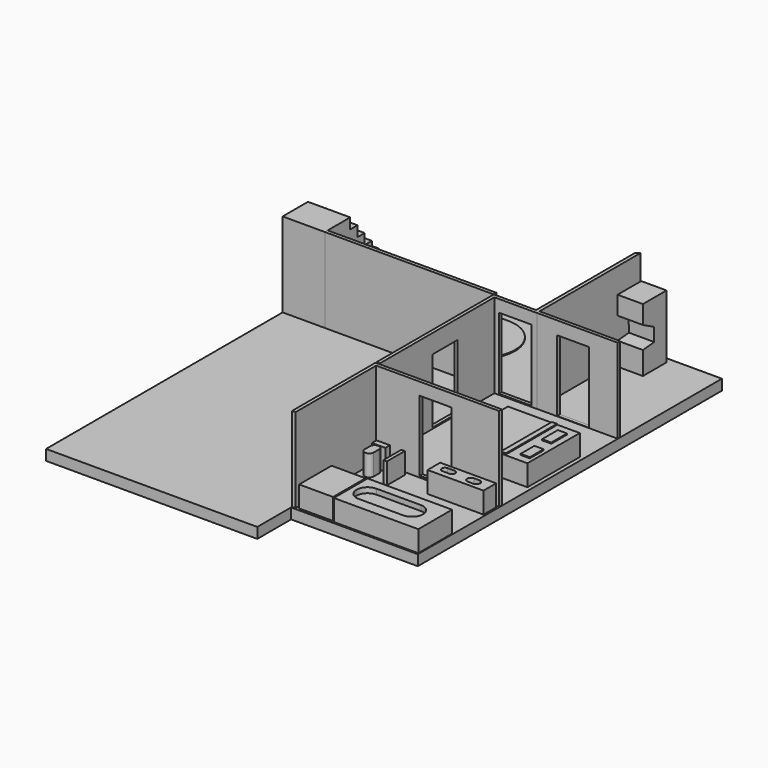
from build123d import *

# Parameters (mm, degrees)
PAD_DEPTH       = 1
PAD004_DEPTH    = 8
PAD005_DEPTH    = 4
SKETCH014_W     = 7.729191
SKETCH014_H     = 0.31886
PAD006_DEPTH    = 8
SKETCH015_W     = 11.953097
SKETCH015_H     = 0.33
PAD007_DEPTH    = 8
SKETCH016_W     = 3
SKETCH016_H     = 6.672529
POCKET_DEPTH    = 5
SKETCH017_W     = 3.102198
SKETCH017_H     = 6.756484
POCKET001_DEPTH = 5
SKETCH018_W     = 15.99927
SKETCH018_H     = 0.33
PAD008_DEPTH    = 8
SKETCH020_W     = 3
SKETCH020_H     = 6.100988
POCKET002_DEPTH = 5
PAD009_DEPTH    = 8
SKETCH005_W     = 5.295486
SKETCH005_H     = 1.5
SKETCH005_W_2   = 8
SKETCH005_H_2   = 4
SKETCH005_W_3   = 3.212604
SKETCH005_H_3   = 3.838312
SKETCH005_W_4   = 1.267163
SKETCH005_H_4   = 0.540659
SKETCH005_W_5   = 0.33
SKETCH005_H_5   = 2.119946
PAD010_DEPTH    = 2
POCKET003_DEPTH = 0.5
SKETCH024_W     = 6.8
SKETCH024_H     = 6.2
PAD011_DEPTH    = 2
SKETCH025_W     = 2.4
SKETCH025_H     = 2.8
PAD012_DEPTH    = 6
POCKET004_DEPTH = 2.5
SKETCH028_W     = 3
SKETCH028_H     = 6.730199
POCKET005_DEPTH = 5
PAD013_DEPTH    = 3.2
POCKET006_DEPTH = 0.5
SKETCH031_W     = 1.637633
SKETCH031_H     = 0.834874
PAD014_DEPTH    = 1.2
PAD015_DEPTH    = 0.1
SKETCH033_W     = 0.866982
SKETCH033_H     = 1.862408
SKETCH033_W_2   = 0.866983
SKETCH033_H_2   = 1.637636
SKETCH033_W_3   = 0.481657
SKETCH033_H_3   = 6.036772
PAD016_DEPTH    = 0.1


with BuildPart() as part:
    # Sketch → Pad (new body)
    with BuildSketch(Plane.XY):
        Polygon((0, -28), (-20, -28), (-20, 0), (-16, 0), (-16, 12), (12, 12), (12, -24), (0, -24), align=None)
    extrude(amount=PAD_DEPTH)

    # Sketch007 → Pad004 (join)
    with BuildSketch(Plane.XY.offset(1)):
        Polygon((0.316723, -0.33), (0.316723, -13.888312), (0, -13.888312), (0, 0), (4, 0), (4, 11.732385), (4.33, 11.969152), (4.33, -0.33), align=None)
    extrude(amount=PAD004_DEPTH)

    # Sketch004 (on Face4 of Pad) → Pad005 (join)
    with BuildSketch(Plane(origin=(-16, 0, 0), x_dir=(0, -1, 0), z_dir=(-1, 0, 0))):
        Polygon((-12, 0), (-12, 1), (-9, 1), (-9, 2), (-8.142857, 2), (-8.142857, 3), (-7.285714, 3), (-7.285714, 4), (-6.428571, 4), (-6.428571, 5), (-5.571429, 5), (-5.571429, 6), (-4.714286, 6), (-4.714286, 7), (-3.857143, 7), (-3.857143, 8), (-3, 8), (-3, 9), (0, 9), (0, 0), align=None)
    extrude(amount=PAD005_DEPTH)

    # Sketch014 (on Face5 of Pad005) → Pad006 (join)
    with BuildSketch(Plane.XY.offset(1)):
        with Locations((8.106394, -0.15943)):
            Rectangle(SKETCH014_W, SKETCH014_H)
    extrude(amount=PAD006_DEPTH)

    # Sketch015 (on Face5 of Pad006) → Pad007 (join)
    with BuildSketch(Plane.XY.offset(1)):
        with Locations((5.976548, -14.165)):
            Rectangle(SKETCH015_W, SKETCH015_H)
    extrude(amount=PAD007_DEPTH)

    # Sketch016 (on Face16 of Pad007) → Pocket (cut)
    with BuildSketch(Plane.XZ.offset(14.33)):
        with Locations((5.939301, 4.490863)):
            Rectangle(SKETCH016_W, SKETCH016_H)
    extrude(amount=-POCKET_DEPTH, mode=Mode.SUBTRACT)

    # Sketch017 (on Face19 of Pocket) → Pocket001 (cut)
    with BuildSketch(Plane.XZ.offset(0.33)):
        with Locations((2.28487, 4.481079)):
            Rectangle(SKETCH017_W, SKETCH017_H)
    extrude(amount=-POCKET001_DEPTH, mode=Mode.SUBTRACT)

    # Sketch018 (on Face5 of Pocket001) → Pad008 (join)
    with BuildSketch(Plane.XY.offset(1)):
        with Locations((-7.999635, 0.165)):
            Rectangle(SKETCH018_W, SKETCH018_H)
    extrude(amount=PAD008_DEPTH)

    # Sketch020 (on Face20 of Pad008) → Pocket002 (cut)
    with BuildSketch(Plane(origin=(0, 0, 0), x_dir=(0, -1, 0), z_dir=(-1, 0, 0))):
        with Locations((6.176963, 4.163983)):
            Rectangle(SKETCH020_W, SKETCH020_H)
    extrude(amount=-POCKET002_DEPTH, mode=Mode.SUBTRACT)

    # Sketch021 (on Face5 of Pocket002) → Pad009 (join)
    with BuildSketch(Plane.XY.offset(1)):
        Polygon((0, -14.263546), (0, -23.894106), (0.33, -23.872581), (0.33, -14.263546), align=None)
    extrude(amount=PAD009_DEPTH)

    # Sketch005 (on Face5 of Pad009) → Pad010 (join)
    with BuildSketch(Plane.XY.offset(1)):
        with Locations((9.181875, -15.260856)):
            Rectangle(SKETCH005_W, SKETCH005_H)
        with Locations((7.922637, -21.844449)):
            Rectangle(SKETCH005_W_2, SKETCH005_H_2)
        with Locations((2.172653, -21.834947)):
            Rectangle(SKETCH005_W_3, SKETCH005_H_3)
        with BuildLine():
            ThreePointArc((1.67577, -15.683133), (1.255132, -15.262495), (0.834494, -15.683133))
            Line((0.834494, -15.683133), (0.834494, -16.314087))
            ThreePointArc((0.834494, -16.314087), (1.255132, -16.734725), (1.67577, -16.314087))
            Line((1.67577, -15.683133), (1.67577, -16.314087))
        make_face()
        with Locations((1.25517, -14.930792)):
            Rectangle(SKETCH005_W_4, SKETCH005_H_4)
        with Locations((3.165, -15.762285)):
            Rectangle(SKETCH005_W_5, SKETCH005_H_5)
    extrude(amount=PAD010_DEPTH)

    # Sketch010 (on Face79 of Pad010) → Pocket003 (cut)
    with BuildSketch(Plane.XY.offset(3)):
        with BuildLine():
            ThreePointArc((5.452506, -20.709412), (4.400786, -21.761133), (5.452506, -22.812854))
            Line((5.452506, -22.812854), (9.654259, -22.812854))
            ThreePointArc((9.654259, -22.812854), (10.70598, -21.761133), (9.654259, -20.709412))
            Line((5.452506, -20.709412), (9.654259, -20.709412))
        make_face()
        with BuildLine():
            ThreePointArc((7.507576, -14.85322), (7.199253, -15.161543), (7.507576, -15.469866))
            Line((7.507576, -15.469866), (8.173935, -15.469866))
            ThreePointArc((8.173935, -15.469866), (8.482258, -15.161543), (8.173935, -14.85322))
            Line((7.507576, -14.85322), (8.173935, -14.85322))
        make_face()
        with BuildLine():
            ThreePointArc((10.044301, -14.90339), (9.689296, -15.258395), (10.044301, -15.6134))
            Line((10.044301, -15.6134), (10.55301, -15.6134))
            ThreePointArc((10.55301, -15.6134), (10.908015, -15.258395), (10.55301, -14.90339))
            Line((10.044301, -14.90339), (10.55301, -14.90339))
        make_face()
    extrude(amount=-POCKET003_DEPTH, mode=Mode.SUBTRACT)

    # Sketch024 (on Face5 of Pocket003) → Pad011 (join)
    with BuildSketch(Plane.XY.offset(1)):
        with Locations((8.22879, -7.462824)):
            Rectangle(SKETCH024_W, SKETCH024_H)
    extrude(amount=PAD011_DEPTH)

    # Sketch025 (on Face5 of Pad011) → Pad012 (join)
    with BuildSketch(Plane.XY.offset(1)):
        with Locations((5.972474, 10.079884)):
            Rectangle(SKETCH025_W, SKETCH025_H)
    extrude(amount=PAD012_DEPTH)

    # Sketch026 (on Face63 of Pad012) → Pocket004 (cut)
    with BuildSketch(Plane.YZ.offset(7.172474)):
        Polygon((8.224654, 3.127523), (10.022843, 3.288076), (9.990732, 4.572494), (8.51365, 5.343146), align=None)
    extrude(amount=-POCKET004_DEPTH, mode=Mode.SUBTRACT)

    # Sketch028 (on Face59 of Pocket004) → Pocket005 (cut)
    with BuildSketch(Plane.XZ.offset(0.31886)):
        with Locations((7.757963, 4.395962)):
            Rectangle(SKETCH028_W, SKETCH028_H)
    extrude(amount=-POCKET005_DEPTH, mode=Mode.SUBTRACT)

    # Sketch029 (on Face5 of Pocket005) → Pad013 (join)
    with BuildSketch(Plane.XY.offset(1)):
        Polygon((-0.991208, 11.715413), (-0.991208, 9.715413), (2.008792, 9.715413), (2.008792, 5.715413), (4.008792, 5.715413), (4.008792, 11.715413), align=None)
    extrude(amount=PAD013_DEPTH)

    # Sketch030 (on Face115 of Pad013) → Pocket006 (cut)
    with BuildSketch(Plane.XY.offset(4.2)):
        with BuildLine():
            ThreePointArc((3.550535, 8.01575), (3.077208, 8.489077), (2.603881, 8.01575))
            Line((2.603881, 8.01575), (2.603881, 7.267244))
            ThreePointArc((2.603881, 7.267244), (3.077208, 6.793917), (3.550535, 7.267244))
            Line((3.550535, 8.01575), (3.550535, 7.267244))
        make_face()
    extrude(amount=-POCKET006_DEPTH, mode=Mode.SUBTRACT)

    # Sketch031 (on Face115 of Pocket006) → Pad014 (join)
    with BuildSketch(Plane.XY.offset(4.2)):
        with Locations((0.690656, 10.93792)):
            Rectangle(SKETCH031_W, SKETCH031_H)
    extrude(amount=PAD014_DEPTH)

    # Sketch032 (on Face5 of Pad014) → Pad015 (join)
    with BuildSketch(Plane.XY.offset(1)):
        with BuildLine():
            ThreePointArc((-9.997042, 9.217286), (-13.309208, 5.90512), (-9.997042, 2.592954))
            Line((-9.997042, 2.592954), (-6.021085, 2.592954))
            ThreePointArc((-6.021085, 2.592954), (-2.708919, 5.90512), (-6.021085, 9.217286))
            Line((-9.997042, 9.217286), (-6.021085, 9.217286))
        make_face()
    extrude(amount=PAD015_DEPTH)

    # Sketch033 (on Face109 of Pad015) → Pad016 (join)
    with BuildSketch(Plane.XY.offset(3)):
        with Locations((10.620443, -6.083477)):
            Rectangle(SKETCH033_W, SKETCH033_H)
        with Locations((10.845216, -9.021587)):
            Rectangle(SKETCH033_W_2, SKETCH033_H_2)
        with Locations((9.271801, -7.432117)):
            Rectangle(SKETCH033_W_3, SKETCH033_H_3)
    extrude(amount=PAD016_DEPTH)


solid = part.part
